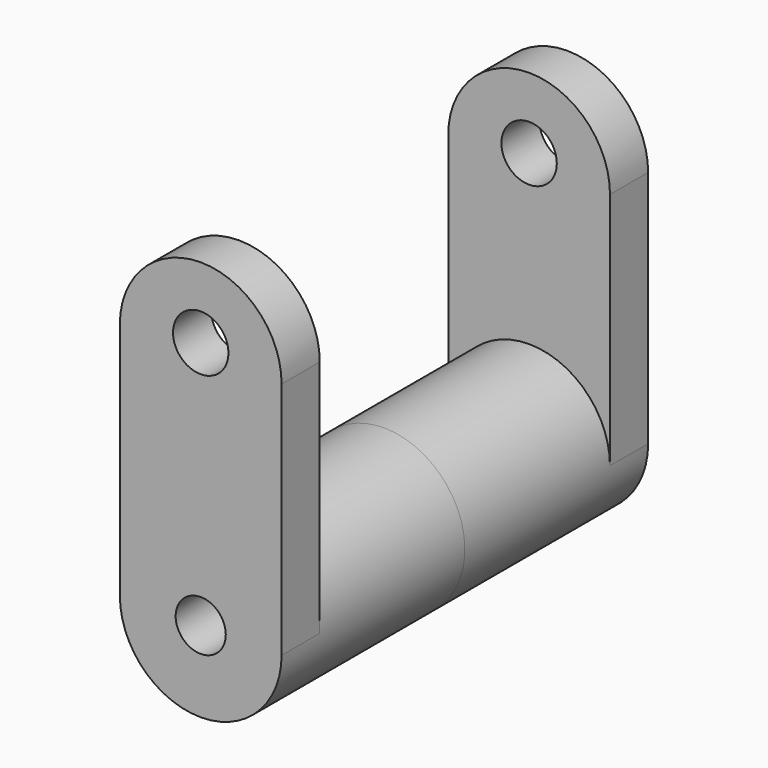
from build123d import *

# Parameters (mm, degrees)
F0_R     = 9.296247
F1_DEPTH = 85
F0_R_2   = 10.278889
F2_DEPTH = 17.7


with BuildPart() as f1:
    # F0 (on Front) → F1 (new body)
    with BuildSketch(Plane.XZ):
        with BuildLine():
            ThreePointArc((25.215676, -48.521861), (-4.784324, -18.521861), (-34.784324, -48.521861))
            ThreePointArc((-34.784324, -48.521861), (-4.784324, -78.521861), (25.215676, -48.521861))
        make_face()
        with Locations((-4.784324, -48.521861)):
            Circle(F0_R, mode=Mode.SUBTRACT)
    extrude(amount=-F1_DEPTH)

    # F0 (on Front) → F2 (join)
    with BuildSketch(Plane.XZ):
        with BuildLine():
            ThreePointArc((25.215676, 40.099124), (-4.784324, 70.099124), (-34.784324, 40.099124))
            Line((-34.784324, 40.099124), (-34.784324, -48.521861))
            ThreePointArc((-34.784324, -48.521861), (-4.784324, -18.521861), (25.215676, -48.521861))
            Line((25.215676, -48.521861), (25.215676, 40.099124))
        make_face()
        with Locations((-4.784844, 43.795345)):
            Circle(F0_R_2, mode=Mode.SUBTRACT)
        with BuildLine():
            ThreePointArc((25.215676, -48.521861), (-4.784324, -18.521861), (-34.784324, -48.521861))
            ThreePointArc((-34.784324, -48.521861), (-4.784324, -78.521861), (25.215676, -48.521861))
        make_face()
        with Locations((-4.784324, -48.521861)):
            Circle(F0_R, mode=Mode.SUBTRACT)
    extrude(amount=-F2_DEPTH)

    # F4: F1 across plane


with BuildPart() as f1_1:
    add(f1.part)
    add(f1.part.mirror(Plane.XZ.offset(-85)))


solid = f1_1.part
